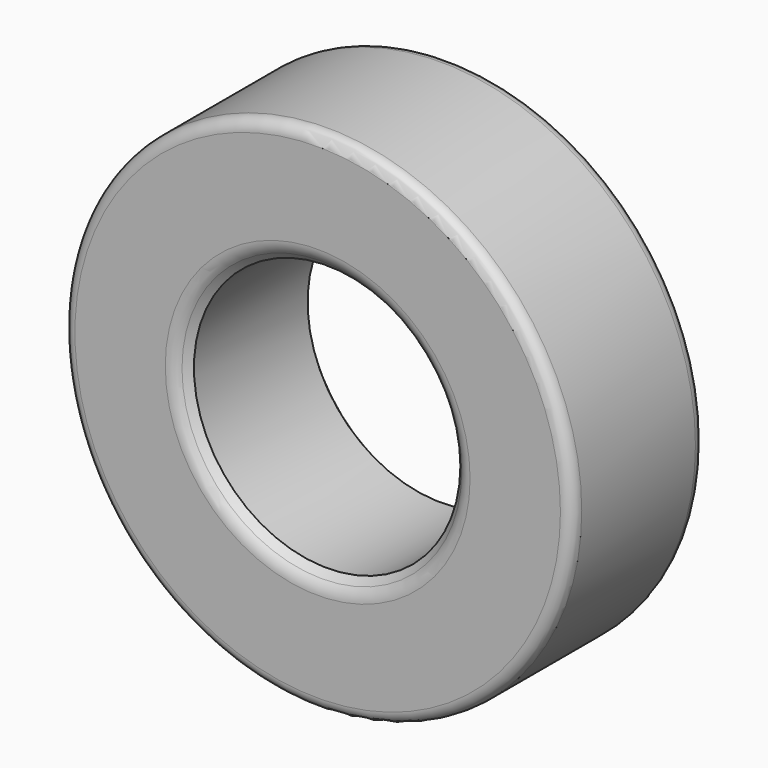
from build123d import *

# Parameters (mm, degrees)
CYLINDER052_R     = 22.5
CYLINDER052_DEPTH = 28
CYLINDER051_R     = 43
CYLINDER051_DEPTH = 28
FILLET003_R       = 2
CHAMFER001_SIZE   = 2
FILLET002_R       = 3


with BuildPart() as cylinder052:
    # Cylinder052 → Cylinder052 (new body)
    with BuildSketch(Plane.XZ):
        Circle(CYLINDER052_R)
    extrude(amount=CYLINDER052_DEPTH)


with BuildPart() as wheel_wide_right:
    # Cylinder051 → Cylinder051 (new body)
    with BuildSketch(Plane.XZ):
        Circle(CYLINDER051_R)
    extrude(amount=CYLINDER051_DEPTH)

    # Cut020: cut Cylinder052
    add(cylinder052.part, mode=Mode.SUBTRACT)

    # Fillet003
    fillet003_edges = [wheel_wide_right.edges().sort_by_distance(p)[0] for p in [
        (-43, -28, 0),
        (-43, 0, 0),
    ]]
    fillet(fillet003_edges, radius=FILLET003_R)

    # Chamfer001
    chamfer001_edges = [wheel_wide_right.edges().sort_by_distance(p)[0] for p in [
        (-22.5, 0, 0),
        (-22.5, -28, 0),
    ]]
    chamfer(chamfer001_edges, length=CHAMFER001_SIZE)

    # Fillet002
    fillet002_edges = [wheel_wide_right.edges().sort_by_distance(p)[0] for p in [
        (-24.5, 0, 0),
        (-24.5, -28, 0),
    ]]
    fillet(fillet002_edges, radius=FILLET002_R)


with BuildPart() as wheel_wide_right_1:
    # Fillet002 placement: moved
    add(wheel_wide_right.part.moved(Location((0, 91, 0))))


solid = wheel_wide_right_1.part
